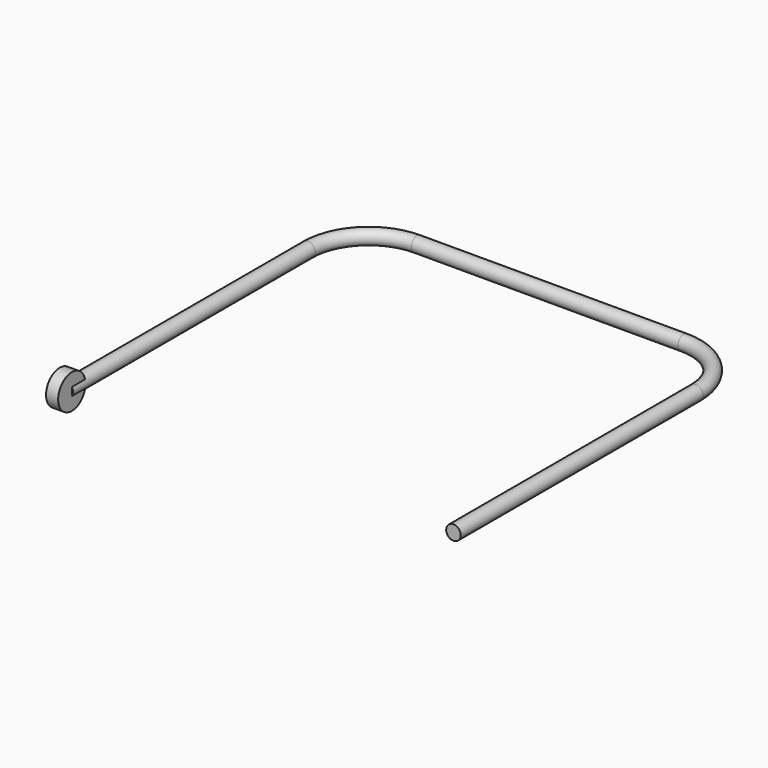
from build123d import *

# Parameters (mm, degrees)
F3_R     = 0.762
F6_R     = 1.79236
F7_DEPTH = 0.635


with BuildPart() as f4:
    # F4: sweep along a path in F0
    with BuildLine(Plane.XY) as f4_path:
        Line((-60.198914, 14.442455), (-60.198914, 46.192455))
        ThreePointArc((-60.198914, 46.192455), (-58.339042, 50.682584), (-53.848914, 52.542455))
        Line((-53.848914, 52.542455), (-25.908914, 52.542455))
        ThreePointArc((-25.908914, 52.542455), (-21.418786, 50.682584), (-19.558914, 46.192455))
        Line((-19.558914, 46.192455), (-19.558914, 14.442455))
    # F3 (on offset) → F4 (sweep)
    with BuildSketch(Plane.XZ.offset(-14.44236)):
        with Locations((-60.19903, 0)):
            Circle(F3_R)
    sweep(path=f4_path.line)

    # F6 (on offset) → F7 (join, symmetric)
    with BuildSketch(Plane.YZ.offset(-60.198889)):
        with Locations((14.44238, 0)):
            Circle(F6_R)
    extrude(amount=F7_DEPTH, both=True)


solid = f4.part
